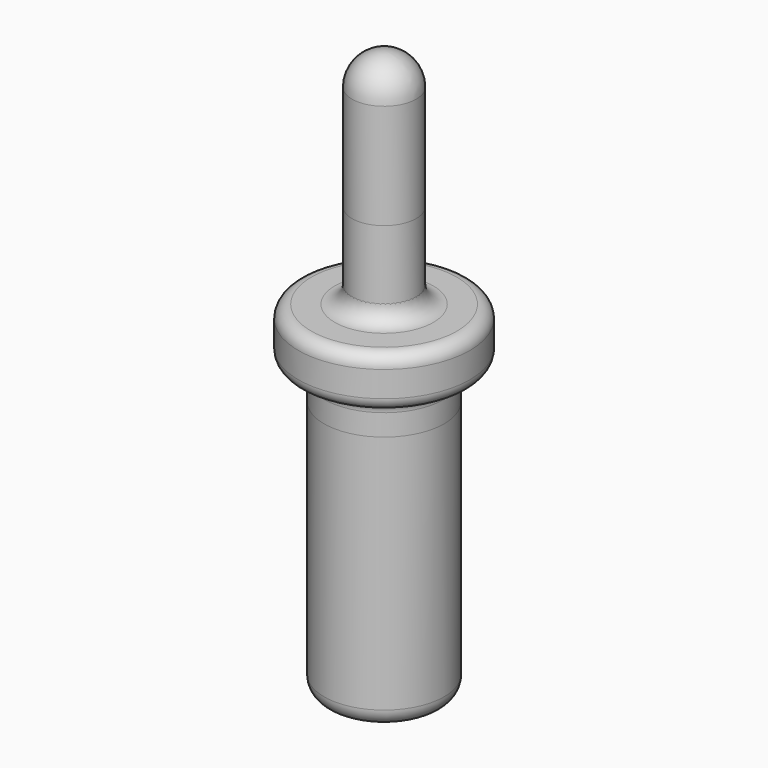
from build123d import *

# Parameters (mm, degrees)
F0_R      = 1.875
F1_DEPTH  = 13
F2_START  = -3
F0_R_2    = 3.5
F2_DEPTH  = 17
F0_R_3    = 5
F3_DEPTH  = 3
F4_R      = 1.875
F5_DEPTH  = 5
F8_R      = 0.75
F9_R      = 1
F10_START = -3
F10_DEPTH = 2


with BuildPart() as f1:
    # F0 (on Top) → F1 (new body)
    with BuildSketch(Plane.XY):
        Circle(F0_R)
    extrude(amount=F1_DEPTH)

    # F4
    f4_edges = [f1.edges().sort_by_distance(p)[0] for p in [
        (1.875, 0, 6.5),
        (-1.875, 0, 0),
        (-1.875, 0, 13),
    ]]
    fillet(f4_edges, radius=F4_R)


with BuildPart() as f2:
    # F0 (on Top) → F2 (new body)
    with BuildSketch(Plane.XY.offset(F2_START)):
        Circle(F0_R_2)
        Circle(F0_R, mode=Mode.SUBTRACT)
        Circle(F0_R)
    extrude(amount=-F2_DEPTH)

    # F9
    f9_edges = [f2.edges().sort_by_distance(p)[0] for p in [
        (3.5, 0, -11.5),
        (-3.5, 0, -3),
        (-3.5, 0, -20),
    ]]
    fillet(f9_edges, radius=F9_R)


with BuildPart() as f3:
    # F0 (on Top) → F3 (new body)
    with BuildSketch(Plane.XY):
        Circle(F0_R_3)
        Circle(F0_R_2, mode=Mode.SUBTRACT)
        Circle(F0_R_2)
        Circle(F0_R, mode=Mode.SUBTRACT)
        Circle(F0_R)
    extrude(amount=-F3_DEPTH)

    # F8
    f8_edges = [f3.edges().sort_by_distance(p)[0] for p in [
        (5, 0, -1.5),
        (-5, 0, 0),
        (-5, 0, -3),
    ]]
    fillet(f8_edges, radius=F8_R)


with BuildPart() as f5:
    # F0 (on Top) → F5 (new body)
    with BuildSketch(Plane.XY):
        Circle(F0_R)
    extrude(amount=F5_DEPTH)


with BuildPart() as f7:
    # F6 (on Front) → F7 (revolve)
    with BuildSketch(Plane.XZ):
        with BuildLine():
            Line((-1.875, 0), (-1.875, 1))
            ThreePointArc((-1.875, 1), (-2.1678932188, 0.2928932188), (-2.875, 0))
            Line((-2.875, 0), (-1.875, 0))
        make_face()
    revolve(axis=Axis((0, 0, 0), (0, 0, -1)))


with BuildPart() as f10:
    # F0 (on Top) → F10 (new body)
    with BuildSketch(Plane.XY.offset(F10_START)):
        Circle(F0_R_2)
        Circle(F0_R, mode=Mode.SUBTRACT)
    extrude(amount=-F10_DEPTH)


with BuildPart() as f12:
    # F11 (on Front) → F12 (revolve)
    with BuildSketch(Plane.XZ):
        with BuildLine():
            ThreePointArc((3.5, -3.75), (3.7196699141, -3.2196699141), (4.25, -3))
            Line((4.25, -3), (3.5, -3))
            Line((3.5, -3), (3.5, -3.75))
        make_face()
    revolve(axis=Axis((0, 0, -3), (0, 0, 1)))


solid = Compound([f1.part, f2.part, f3.part, f5.part, f7.part, f10.part, f12.part])
